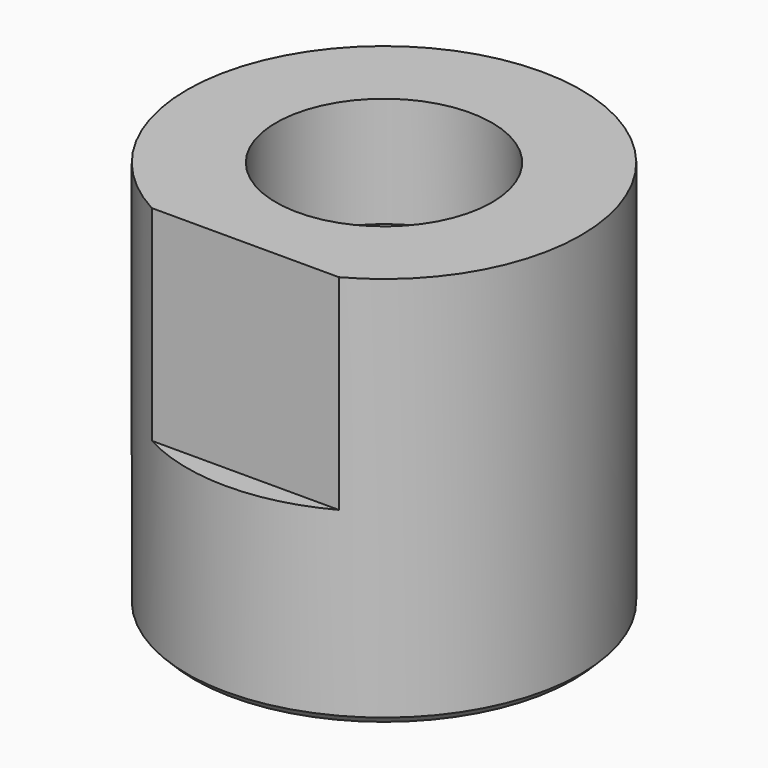
from build123d import *

# Parameters (mm, degrees)
F0_R     = 12.5
F1_DEPTH = 25
F2_R     = 7.5
F3_DEPTH = 18
F4_R     = 6.85
F5_DEPTH = 7
F7_DEPTH = 13
F8_SIZE  = 0.5


with BuildPart() as f1:
    # F0 (on Top) → F1 (new body)
    with BuildSketch(Plane.XY):
        Circle(F0_R)
    extrude(amount=F1_DEPTH)

    # F2 (on face) → F3 (cut)
    with BuildSketch(Plane(origin=(0, 0, 0), x_dir=(1, 0, 0), z_dir=(0, 0, -1))):
        Circle(F2_R)
    extrude(amount=-F3_DEPTH, mode=Mode.SUBTRACT)

    # F4 (on face) → F5 (cut)
    with BuildSketch(Plane.XY.offset(25)):
        Circle(F4_R)
    extrude(amount=-F5_DEPTH, mode=Mode.SUBTRACT)

    # F6 (on face) → F7 (cut)
    with BuildSketch(Plane.XY.offset(25)):
        with BuildLine():
            ThreePointArc((-5.9371710435, -11), (-3.0618621785, -12.1191996435), (0, -12.5))
            Line((0, -12.5), (0, -11))
            Line((0, -11), (-5.9371710435, -11))
        make_face()
        with BuildLine():
            Line((0, -11), (0, -12.5))
            ThreePointArc((0, -12.5), (3.0618621785, -12.1191996435), (5.9371710435, -11))
            Line((5.9371710435, -11), (0, -11))
        make_face()
    extrude(amount=-F7_DEPTH, mode=Mode.SUBTRACT)

    # F8
    f8_edges = [f1.edges().sort_by_distance(p)[0] for p in [
        (-12.5, 0, 0),
    ]]
    chamfer(f8_edges, length=F8_SIZE)


solid = f1.part
